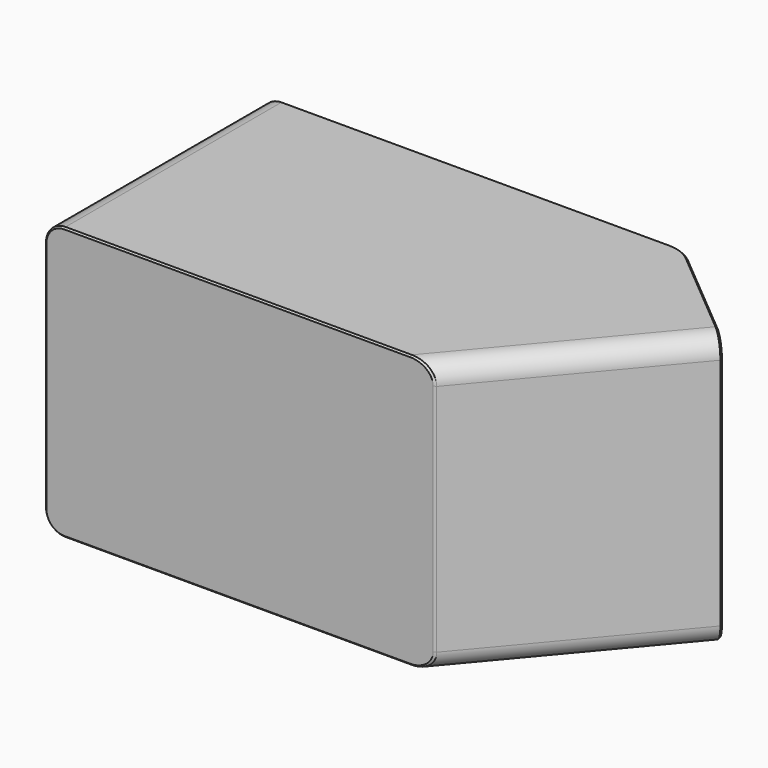
from build123d import *

# Parameters (mm, degrees)
PAD_DEPTH    = 70
POCKET_DEPTH = 66
FILLET_R     = 3
FILLET001_R  = 5
FILLET002_R  = 10
CHAMFER_SIZE = 0.4


with BuildPart() as part:
    # Sketch → Pad (new body)
    with BuildSketch(Plane.XY):
        Polygon((0, 0), (0, 70), (107.965644, 70), (137.759483, 45), (100, 0), align=None)
    extrude(amount=PAD_DEPTH)

    # Sketch001 (on DatumPlane) → Pocket (cut)
    with BuildSketch(Plane.XY.offset(68)):
        Polygon((2, 70), (2, 2), (99.067385, 2), (136.227395, 46.285575), (136.227395, 70), align=None)
    extrude(amount=-POCKET_DEPTH, mode=Mode.SUBTRACT)

    # Fillet
    fillet_edges = [part.edges().sort_by_distance(p)[0] for p in [
        (2, 36, 2),
        (117.64739, 24.142788, 68),
        (117.64739, 24.142788, 2),
        (2, 36, 68),
    ]]
    fillet(fillet_edges, radius=FILLET_R)

    # Fillet001
    fillet001_edges = [part.edges().sort_by_distance(p)[0] for p in [
        (0, 35, 70),
        (118.879742, 22.5, 70),
        (118.879742, 22.5, 0),
        (0, 35, 0),
    ]]
    fillet(fillet001_edges, radius=FILLET001_R)

    # Fillet002
    fillet002_edges = [part.edges().sort_by_distance(p)[0] for p in [
        (107.965644, 70, 69),
        (107.965644, 70, 1),
    ]]
    fillet(fillet002_edges, radius=FILLET002_R)

    # Chamfer
    chamfer_edges = [part.edges().sort_by_distance(p)[0] for p in [
        (100, 0, 35),
        (97.779105, 0, 1.242526),
        (97.779105, 0, 68.757474),
        (49.236482, 0, 0),
        (49.236482, 0, 70),
        (1.464466, 0, 1.464466),
        (1.464466, 0, 68.535534),
        (0, 0, 35),
        (54.662971, 70, 70),
        (54.662971, 70, 68),
    ]]
    chamfer(chamfer_edges, length=CHAMFER_SIZE)


solid = part.part
